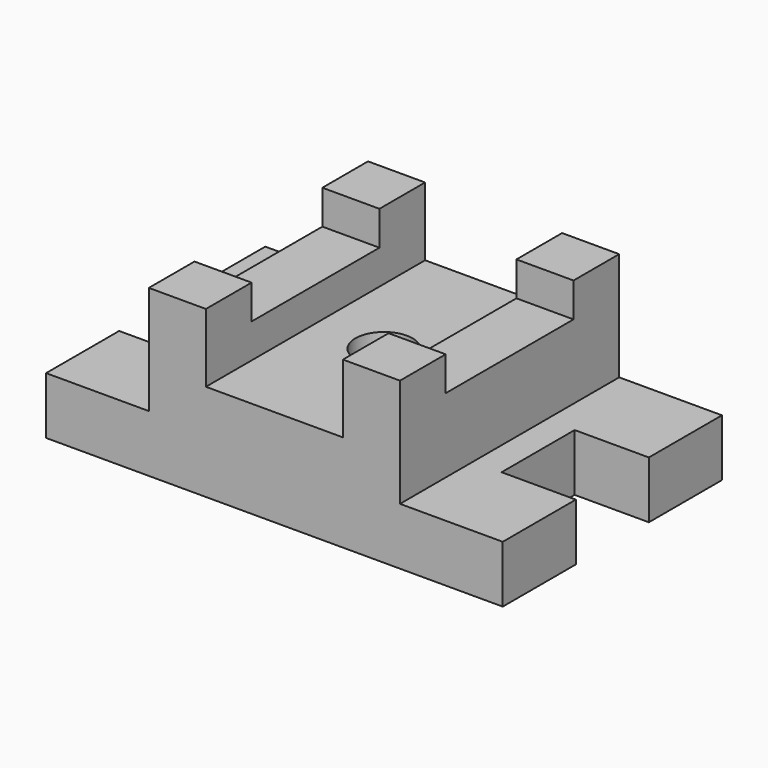
from build123d import *

# Parameters (mm, degrees)
F1_DEPTH  = 152.4
F2_W      = 41.275
F2_H      = 50.8
F3_DEPTH  = 76.2
F4_W      = 41.275
F4_H      = 50.8
F5_DEPTH  = 76.2
F6_W      = 88.9
F6_H      = 19.05
F7_DEPTH  = 50.8
F8_W      = 88.9
F8_H      = 19.05
F9_DEPTH  = 76.2
F10_R     = 15.875
F11_DEPTH = 76.2


with BuildPart() as f1:
    # F0 (on Front) → F1 (new body)
    with BuildSketch(Plane.XZ):
        Polygon((38.1, 0), (-38.1, 0), (-38.1, 38.1), (-69.85, 38.1), (-69.85, -22.225), (-127, -22.225), (-127, -53.975), (0, -53.975), (127, -53.975), (127, -22.225), (69.85, -22.225), (69.85, 38.1), (38.1, 38.1), align=None)
    extrude(amount=F1_DEPTH)

    # F2 (on face) → F3 (cut)
    with BuildSketch(Plane.XY.offset(-22.225)):
        with Locations((106.3625, -76.2)):
            Rectangle(F2_W, F2_H)
    extrude(amount=-F3_DEPTH, mode=Mode.SUBTRACT)

    # F4 (on face) → F5 (cut)
    with BuildSketch(Plane.XY.offset(-22.225)):
        with Locations((-106.3625, -76.2)):
            Rectangle(F4_W, F4_H)
    extrude(amount=-F5_DEPTH, mode=Mode.SUBTRACT)

    # F6 (on face) → F7 (cut)
    with BuildSketch(Plane(origin=(-69.85, 0, 0), x_dir=(0, -1, 0), z_dir=(-1, 0, 0))):
        with Locations((76.2, 28.575)):
            Rectangle(F6_W, F6_H)
    extrude(amount=-F7_DEPTH, mode=Mode.SUBTRACT)

    # F8 (on face) → F9 (cut)
    with BuildSketch(Plane.YZ.offset(69.85)):
        with Locations((-76.2, 28.575)):
            Rectangle(F8_W, F8_H)
    extrude(amount=-F9_DEPTH, mode=Mode.SUBTRACT)

    # F10 (on face) → F11 (cut)
    with BuildSketch(Plane.XY):
        with Locations((0, -76.2)):
            Circle(F10_R)
    extrude(amount=-F11_DEPTH, mode=Mode.SUBTRACT)


solid = f1.part
